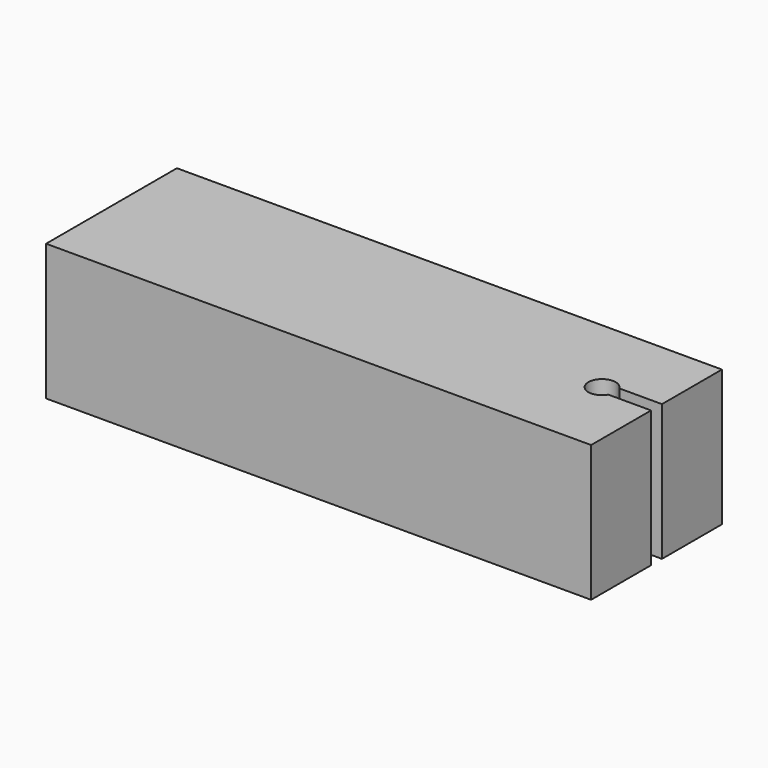
from build123d import *

# Parameters (mm, degrees)
F1_DEPTH = 5


with BuildPart() as f1:
    # F0 (on Top) → F1 (new body)
    with BuildSketch(Plane.XY):
        with BuildLine():
            Line((-10, -3), (10, -3))
            Line((10, -3), (10, -0.25))
            Line((10, -0.25), (8.433013, -0.25))
            ThreePointArc((8.433013, -0.25), (7.5, 0), (8.433013, 0.25))
            Line((8.433013, 0.25), (10, 0.25))
            Line((10, 0.25), (10, 3))
            Line((10, 3), (-10, 3))
            Line((-10, 3), (-10, -3))
        make_face()
    extrude(amount=F1_DEPTH)


solid = f1.part
